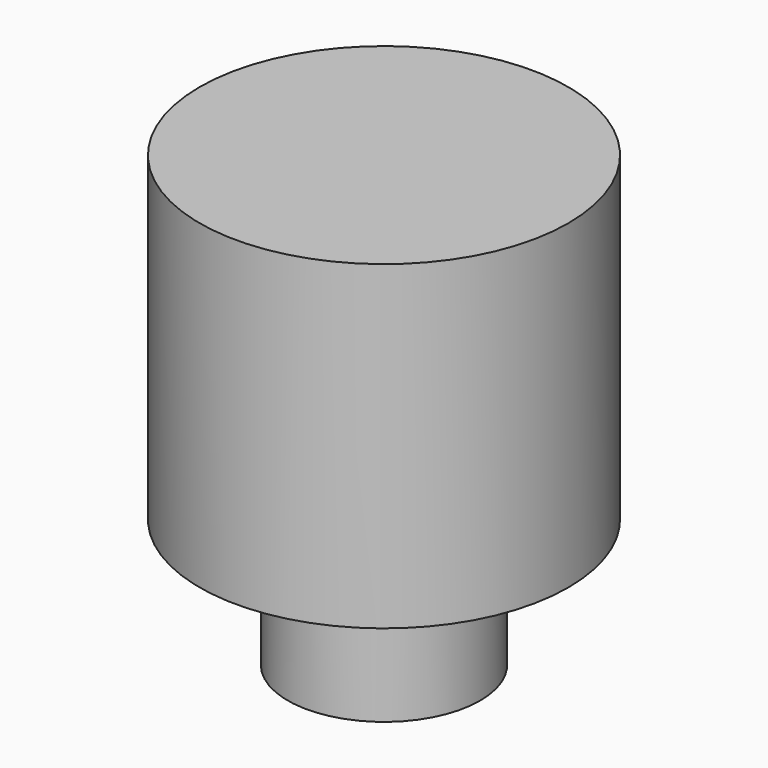
from build123d import *

# Parameters (mm, degrees)
CYLINDER014_R     = 5.75
CYLINDER014_DEPTH = 10
CYLINDER013_R     = 3
CYLINDER013_DEPTH = 10


with BuildPart() as obj1:
    # Cylinder014 → Cylinder014 (new body)
    with BuildSketch(Plane(origin=(-23, 0, 69), x_dir=(1, 0, 0), z_dir=(0, 0, 1))):
        Circle(CYLINDER014_R)
    extrude(amount=CYLINDER014_DEPTH)


with BuildPart() as fusion003:
    # Cylinder013 → Cylinder013 (new body)
    with BuildSketch(Plane(origin=(-23, 0, 65), x_dir=(1, 0, 0), z_dir=(0, 0, 1))):
        Circle(CYLINDER013_R)
    extrude(amount=CYLINDER013_DEPTH)

    # Fusion003: union obj1
    add(obj1.part)


with BuildPart() as fusion003_1:
    # Fusion003 placement: moved
    add(fusion003.part.moved(Location((2.5, -25, -6))))


solid = fusion003_1.part
